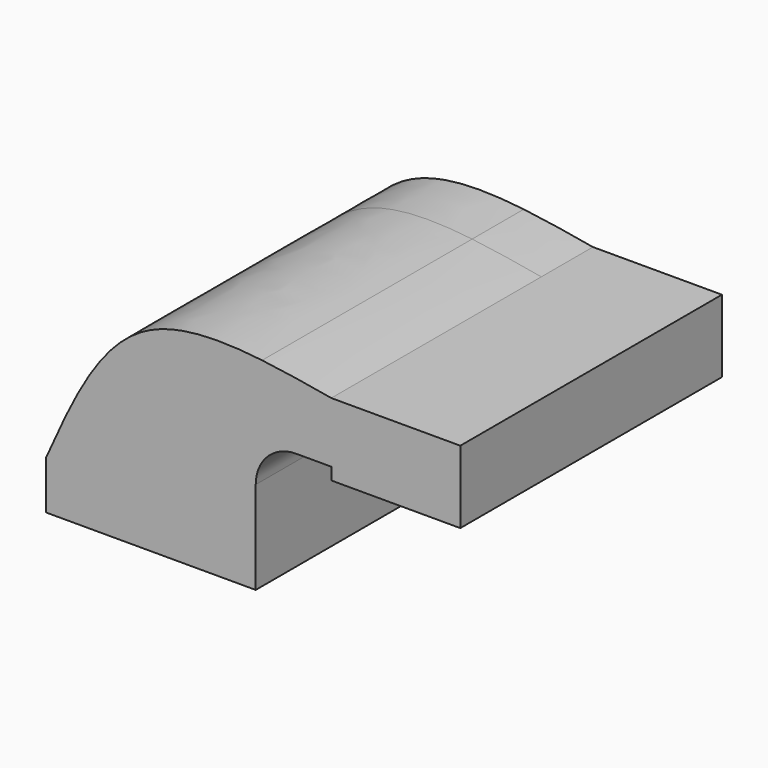
from build123d import *

# Parameters (mm, degrees)
F1_DEPTH = 25.4
F0_W     = 25.4
F0_H     = 4.7498
F0_H_2   = 19.05
F0_H_3   = 4.7752
F2_DEPTH = 128.778


with BuildPart() as f1:
    # F0 (on Front) → F1 (new body)
    with BuildSketch(Plane.XZ):
        with BuildLine():
            add(Edge.make_bspline(
                [(-41.275, 9.525), (-30.815569914, 33.0119528006), (-13.2288324306, 72.5034805216), (26.4717610579, 72.9090420342), (43.7908115335, 70.8998374731)],
                knots=[0, 0, 0, 0, 0.492548648, 0.8281831514, 0.8281831514, 0.8281831514, 0.8281831514], degree=3))
            Line((-41.275, 9.525), (22.225, 9.525))
            Line((22.225, 9.525), (22.225, 27.0002))
            ThreePointArc((22.225, 27.0002), (32.4542956671, 51.6959043329), (57.15, 61.9252))
            Line((57.15, 61.9252), (71.0330680013, 61.9252))
            Line((71.0330680013, 61.9252), (71.0330680013, 66.675))
            add(Edge.make_bspline(
                [(43.7908115335, 70.8998374731), (52.6567196694, 69.8712924561), (61.8448938353, 68.273146228), (71.0330680013, 66.675)],
                knots=[0.8281831514, 0.8281831514, 0.8281831514, 0.8281831514, 1, 1, 1, 1], degree=3))
        make_face()
    extrude(amount=F1_DEPTH)

    # F0 (on Front) → F2 (join)
    with BuildSketch(Plane.XZ):
        with BuildLine():
            add(Edge.make_bspline(
                [(-41.275, 9.525), (-30.815569914, 33.0119528006), (-13.2288324306, 72.5034805216), (26.4717610579, 72.9090420342), (43.7908115335, 70.8998374731)],
                knots=[0, 0, 0, 0, 0.492548648, 0.8281831514, 0.8281831514, 0.8281831514, 0.8281831514], degree=3))
            Line((-41.275, 9.525), (22.225, 9.525))
            Line((22.225, 9.525), (22.225, 27.0002))
            ThreePointArc((22.225, 27.0002), (32.4542956671, 51.6959043329), (57.15, 61.9252))
            Line((57.15, 61.9252), (71.0330680013, 61.9252))
            Line((71.0330680013, 61.9252), (71.0330680013, 66.675))
            add(Edge.make_bspline(
                [(43.7908115335, 70.8998374731), (52.6567196694, 69.8712924561), (61.8448938353, 68.273146228), (71.0330680013, 66.675)],
                knots=[0.8281831514, 0.8281831514, 0.8281831514, 0.8281831514, 1, 1, 1, 1], degree=3))
        make_face()
        Polygon((22.225, 9.525), (-41.275, 9.525), (-41.275, -9.525), (41.275, -9.525), (41.275, 9.525), align=None)
        with BuildLine():
            Line((22.225, 27.0002), (22.225, 9.525))
            Line((22.225, 9.525), (41.275, 9.525))
            Line((41.275, 9.525), (41.275, 27.0002))
            ThreePointArc((41.275, 27.0002), (45.9246798487, 38.2255201513), (57.15, 42.8752))
            Line((57.15, 42.8752), (71.0330680013, 42.8752))
            Line((71.0330680013, 42.8752), (71.0330680013, 61.9252))
            Line((71.0330680013, 61.9252), (57.15, 61.9252))
            ThreePointArc((57.15, 61.9252), (32.4542956671, 51.6959043329), (22.225, 27.0002))
        make_face()
        with Locations((83.7330680013, 64.3001)):
            Rectangle(F0_W, F0_H)
        Polygon((121.8330680013, 66.675), (96.4330680013, 66.675), (96.4330680013, 61.9252), (96.4330680013, 42.8752), (96.4330680013, 38.1), (121.8330680013, 38.1), align=None)
        with Locations((83.7330680013, 52.4002)):
            Rectangle(F0_W, F0_H_2)
        with Locations((83.7330680013, 40.4876)):
            Rectangle(F0_W, F0_H_3)
    extrude(amount=F2_DEPTH)


solid = f1.part
